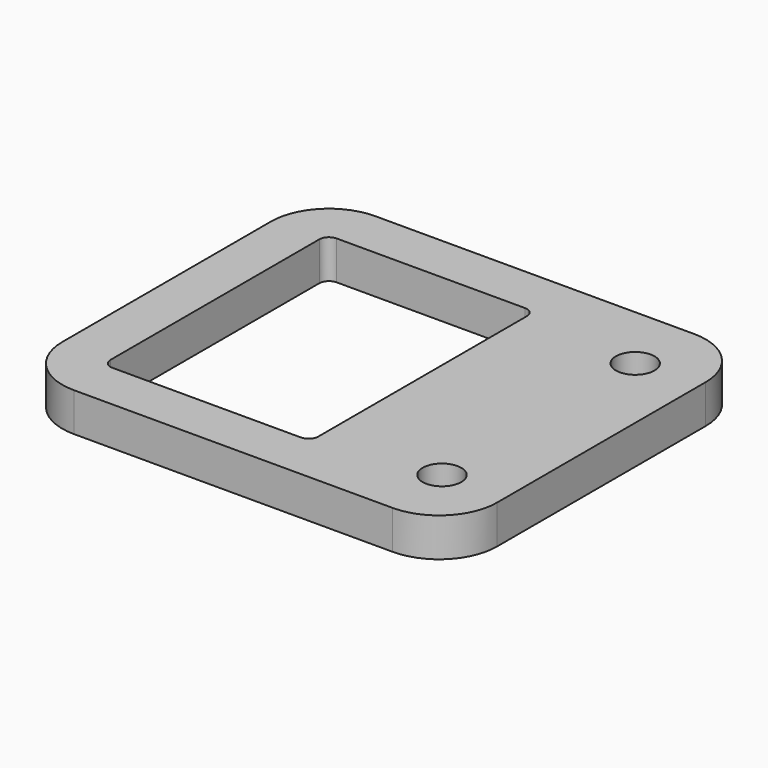
from build123d import *

# Parameters (mm, degrees)
SKETCH_W    = 45
SKETCH_H    = 39
SKETCH_R    = 2
SKETCH_W_2  = 21.5
SKETCH_H_2  = 29
PAD_DEPTH   = 4
FILLET_R    = 6
FILLET001_R = 6
FILLET002_R = 1


with BuildPart() as part:
    # Sketch → Pad (new body)
    with BuildSketch(Plane.XY):
        with Locations((17.5, 14.5)):
            Rectangle(SKETCH_W, SKETCH_H)
        with Locations((33.5, 2)):
            Circle(SKETCH_R, mode=Mode.SUBTRACT)
        with Locations((33.5, 27)):
            Circle(SKETCH_R, mode=Mode.SUBTRACT)
        with Locations((10.75, 14.5)):
            Rectangle(SKETCH_W_2, SKETCH_H_2, mode=Mode.SUBTRACT)
    extrude(amount=PAD_DEPTH)

    # Fillet
    fillet_edges = [part.edges().sort_by_distance(p)[0] for p in [
        (40, -5, 2),
        (-5, -5, 2),
    ]]
    fillet(fillet_edges, radius=FILLET_R)

    # Fillet001
    fillet001_edges = [part.edges().sort_by_distance(p)[0] for p in [
        (-5, 34, 2),
        (40, 34, 2),
    ]]
    fillet(fillet001_edges, radius=FILLET001_R)

    # Fillet002
    fillet002_edges = [part.edges().sort_by_distance(p)[0] for p in [
        (0, 29, 2),
        (0, 0, 2),
        (21.5, 0, 2),
        (21.5, 29, 2),
    ]]
    fillet(fillet002_edges, radius=FILLET002_R)


solid = part.part
